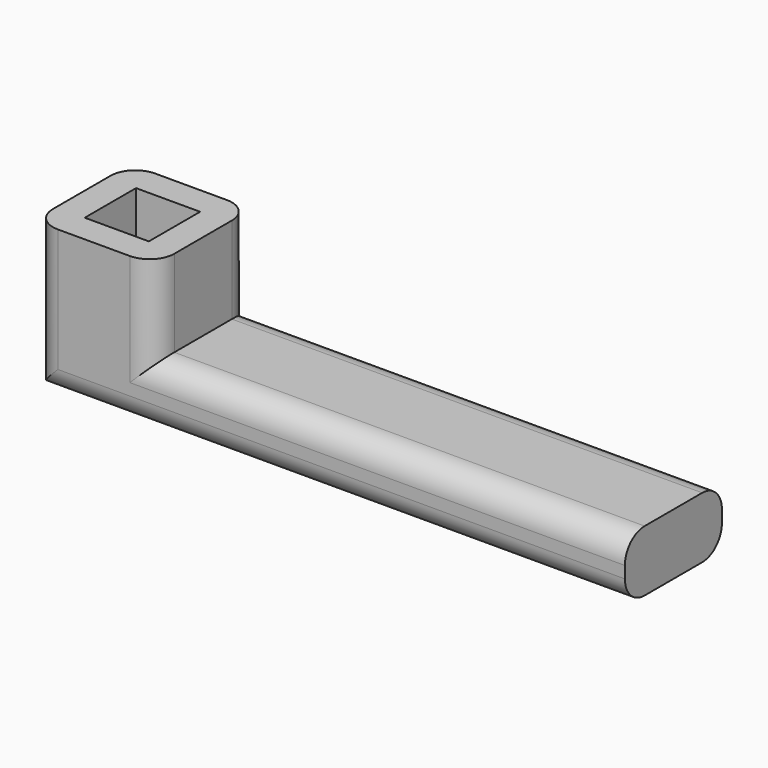
from build123d import *

# Parameters (mm, degrees)
F0_W     = 47.7
F0_H     = 12.3
F1_DEPTH = 6.2
F0_W_2   = 12.3
F0_W_3   = 6.5
F0_H_2   = 6.5
F2_DEPTH = 15
F3_R     = 2.5


with BuildPart() as f1:
    # F0 (on Top) → F1 (new body)
    with BuildSketch(Plane.XY):
        with Locations((2.515334, -30.180186)):
            Rectangle(F0_W, F0_H)
    extrude(amount=F1_DEPTH)

    # F0 (on Top) → F2 (join)
    with BuildSketch(Plane.XY):
        with Locations((-27.484666, -30.180186)):
            Rectangle(F0_W_2, F0_H)
        with Locations((-27.484666, -30.180186)):
            Rectangle(F0_W_3, F0_H_2, mode=Mode.SUBTRACT)
    extrude(amount=F2_DEPTH)

    # F3
    f3_edges = [f1.edges().sort_by_distance(p)[0] for p in [
        (2.515334, -36.330186, 6.2),
        (2.515334, -24.030186, 6.2),
        (-3.634666, -24.030186, 0),
        (-3.634666, -36.330186, 0),
        (-33.634666, -36.330186, 7.5),
        (-21.334666, -36.330186, 10.6),
        (-21.334666, -24.030186, 10.6),
        (-33.634666, -24.030186, 7.5),
    ]]
    fillet(f3_edges, radius=F3_R)


solid = f1.part
